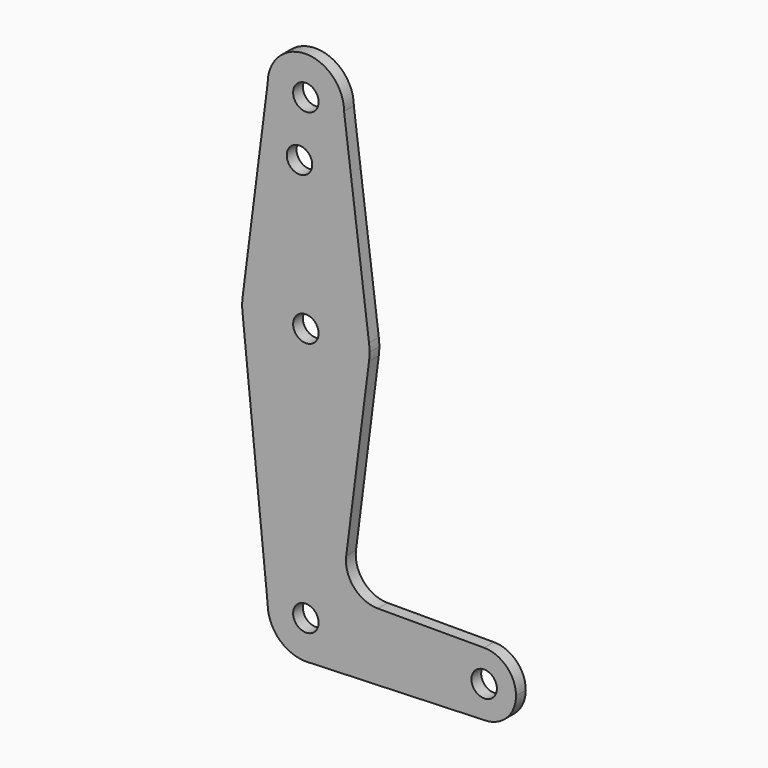
from build123d import *

# Parameters (mm, degrees)
F0_R     = 3.175
F1_DEPTH = 3.048


with BuildPart() as f1:
    # F0 (on Front) → F1 (new body)
    with BuildSketch(Plane.XZ):
        with BuildLine():
            ThreePointArc((0.67949, -9.500732), (6.97129, -6.490511), (9.525, 0))
            ThreePointArc((9.525, 0), (0, 9.525), (-9.525, 0))
            ThreePointArc((-9.525, 0), (-6.735192, -6.735192), (0, -9.525))
            Line((0, -9.525), (0.67949, -9.500732))
        make_face()
        Circle(F0_R, mode=Mode.SUBTRACT)
        with BuildLine():
            ThreePointArc((-9.525, 0), (0, 9.525), (9.525, 0))
            ThreePointArc((9.525, 0), (6.97129, -6.490511), (0.67949, -9.500732))
            Line((0.67949, -9.500732), (44.45, -7.9375))
            ThreePointArc((44.45, -7.9375), (36.5125, 0), (44.45, 7.9375))
            Line((44.45, 7.9375), (17.946122, 7.9375))
            ThreePointArc((17.946122, 7.9375), (11.979481, 10.633666), (10.059795, 16.893451))
            Line((10.059795, 16.893451), (15.747457, 61.491711))
            ThreePointArc((15.747457, 61.491711), (0, 47.625), (-15.747457, 61.491711))
            Line((-15.747457, 61.491711), (-9.525, 0))
        make_face()
        with BuildLine():
            ThreePointArc((0, -9.525), (0.339962, -9.518931), (0.67949, -9.500732))
            Line((0.67949, -9.500732), (0, -9.525))
        make_face()
        with BuildLine():
            ThreePointArc((-15.747457, 65.508289), (-15.875, 63.5), (-15.747457, 61.491711))
            ThreePointArc((-15.747457, 61.491711), (0, 47.625), (15.747457, 61.491711))
            ThreePointArc((15.747457, 61.491711), (15.843082, 62.493832), (15.875, 63.5))
            ThreePointArc((15.875, 63.5), (15.843082, 64.506168), (15.747457, 65.508289))
            ThreePointArc((15.747457, 65.508289), (0, 79.375), (-15.747457, 65.508289))
        make_face()
        with Locations((0, 63.5)):
            Circle(F0_R, mode=Mode.SUBTRACT)
        with BuildLine():
            ThreePointArc((44.45, 7.9375), (36.5125, 0), (44.45, -7.9375))
            ThreePointArc((44.45, -7.9375), (50.06266, -5.61266), (52.3875, 0))
            ThreePointArc((52.3875, 0), (50.06266, 5.61266), (44.45, 7.9375))
        make_face()
        with Locations((44.45, 0)):
            Circle(F0_R, mode=Mode.SUBTRACT)
        with BuildLine():
            Line((-9.525, 114.3), (-15.747457, 65.508289))
            ThreePointArc((-15.747457, 65.508289), (0, 79.375), (15.747457, 65.508289))
            Line((15.747457, 65.508289), (9.525, 114.3))
            ThreePointArc((9.525, 114.3), (0, 104.775), (-9.525, 114.3))
        make_face()
        with Locations((-1.5875, 100.0252)):
            Circle(F0_R, mode=Mode.SUBTRACT)
        with BuildLine():
            ThreePointArc((9.525, 114.3), (0, 123.825), (-9.525, 114.3))
            ThreePointArc((-9.525, 114.3), (0, 104.775), (9.525, 114.3))
        make_face()
        with Locations((0, 114.3)):
            Circle(F0_R, mode=Mode.SUBTRACT)
        with BuildLine():
            Line((-9.525, 114.3), (-15.747457, 65.508289))
            ThreePointArc((-15.747457, 65.508289), (0, 79.375), (15.747457, 65.508289))
            Line((15.747457, 65.508289), (9.525, 114.3))
            ThreePointArc((9.525, 114.3), (0, 104.775), (-9.525, 114.3))
        make_face()
        with Locations((-1.5875, 100.0252)):
            Circle(F0_R, mode=Mode.SUBTRACT)
    extrude(amount=F1_DEPTH)


solid = f1.part
